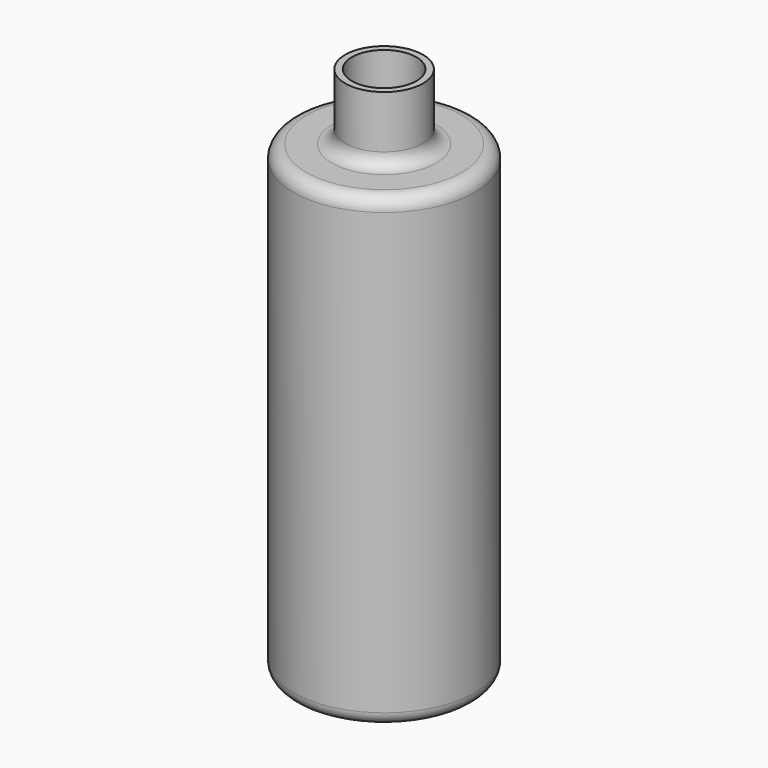
from build123d import *

# Parameters (mm, degrees)
F0_R     = 35
F1_DEPTH = 180
F2_R     = 15
F3_DEPTH = 25.4
F4_R     = 5.08
F5_R     = 5.08
F6_R     = 14.574331
F6_R_2   = 29.92
F7_DEPTH = 6.858
F8_T     = -2.54


with BuildPart() as f1:
    # F0 (on Top) → F1 (new body)
    with BuildSketch(Plane.XY):
        Circle(F0_R)
    extrude(amount=F1_DEPTH)

    # F2 (on face) → F3 (join)
    with BuildSketch(Plane.XY.offset(180)):
        Circle(F2_R)
    extrude(amount=F3_DEPTH)

    # F4
    f4_edges = [f1.edges().sort_by_distance(p)[0] for p in [
        (-35, 0, 180),
    ]]
    fillet(f4_edges, radius=F4_R)

    # F5
    f5_edges = [f1.edges().sort_by_distance(p)[0] for p in [
        (-35, 0, 0),
        (-15, 0, 180),
    ]]
    fillet(f5_edges, radius=F5_R)

    # F6 (on face) → F7 (join)
    with BuildSketch(Plane(origin=(0, 0, 0), x_dir=(1, 0, 0), z_dir=(0, 0, -1))):
        Circle(F6_R)
        Circle(F6_R_2)
        Circle(F6_R, mode=Mode.SUBTRACT)
    extrude(amount=-F7_DEPTH)

    # F8
    f8_openings = [f1.faces().sort_by_distance(p)[0] for p in [
        (0, 0, 205.4),
    ]]
    offset(amount=F8_T, openings=f8_openings)


solid = f1.part
